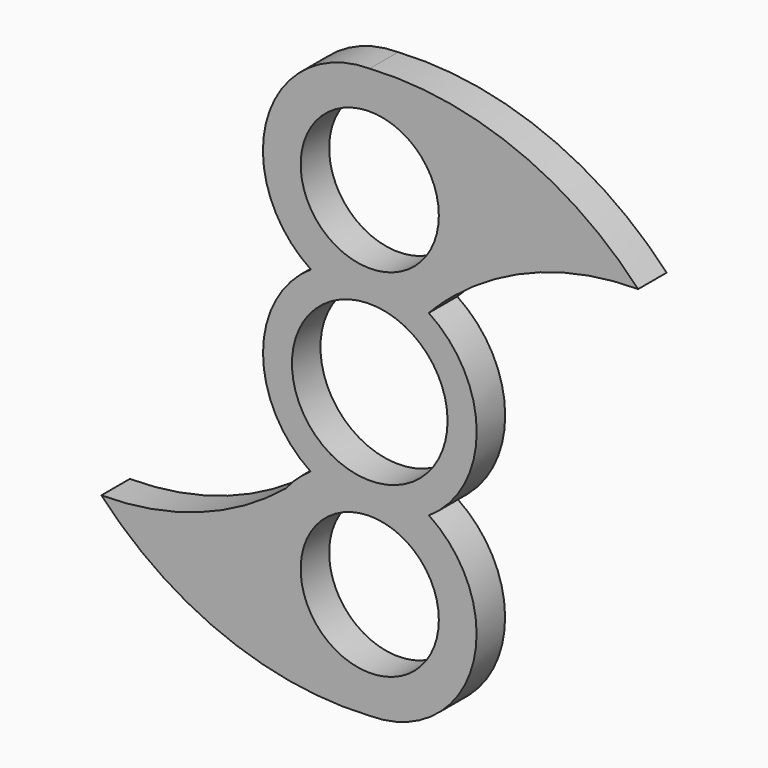
from build123d import *

# Parameters (mm, degrees)
F0_R     = 9.7
F0_R_2   = 10.925
F1_DEPTH = 5


with BuildPart() as f1:
    # F0 (on Front) → F1 (new body)
    with BuildSketch(Plane.XZ):
        with BuildLine():
            ThreePointArc((8.31589, -12.516171), (15.015347, -0.00212), (8.282537, 12.494018))
            ThreePointArc((8.282537, 12.494018), (9.996409, 14.172211), (11.805892, 15.746843))
            ThreePointArc((11.805892, 15.746843), (23.94425, 22.617165), (37.687, 25))
            ThreePointArc((37.687, 25), (20.514782, 36.711637), (-0.009208, 39.999997))
            ThreePointArc((-0.009208, 39.999997), (-14.366945, 29.311716), (-8.267176, 12.483858))
            ThreePointArc((-8.267176, 12.483858), (-14.984626, -0.002104), (-8.300529, -12.505953))
            ThreePointArc((-8.300529, -12.505953), (-10.18297, -13.986049), (-11.805892, -15.746843))
            ThreePointArc((-11.805892, -15.746843), (-23.94425, -22.617165), (-37.687, -25))
            ThreePointArc((-37.687, -25), (-20.514782, -36.711637), (0.009208, -39.999997))
            ThreePointArc((0.009208, -39.999997), (14.358516, -29.339702), (8.31589, -12.516171))
        make_face()
        with Locations((0, -25)):
            Circle(F0_R, mode=Mode.SUBTRACT)
        Circle(F0_R_2, mode=Mode.SUBTRACT)
        with Locations((0, 25)):
            Circle(F0_R, mode=Mode.SUBTRACT)
    extrude(amount=F1_DEPTH)


solid = f1.part
